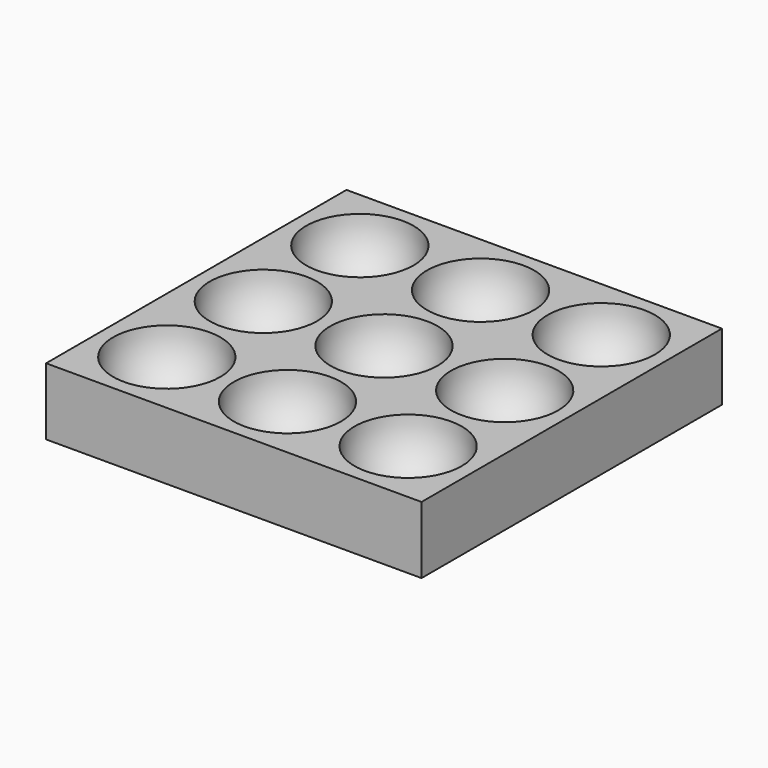
from build123d import *

# Parameters (mm, degrees)
ARRAY_X_COUNT = 3
ARRAY_X_PITCH = 18
ARRAY_Y_COUNT = 3
ARRAY_Y_PITCH = 18
BOX_W         = 56
BOX_H         = 56
BOX_DEPTH     = 10


with BuildPart() as array:
    # Sphere → Sphere (revolve)
    with BuildSketch(Plane.XZ):
        with BuildLine():
            ThreePointArc((0, -8), (8, 0), (0, 8))
            Line((0, 8), (0, -8))
        make_face()
    revolve(axis=Axis((0, 0, 0), (0, 0, 1)))

    # Array X: Array ×3


with BuildPart() as array_1:
    add(array.part)
    with Locations(*[(i * ARRAY_X_PITCH, 0, 0) for i in range(1, ARRAY_X_COUNT)]):
        add(array.part)

    # Array Y: Array ×3


with BuildPart() as array_2:
    add(array_1.part)
    with Locations(*[(0, i * ARRAY_Y_PITCH, 0) for i in range(1, ARRAY_Y_COUNT)]):
        add(array_1.part)


with BuildPart() as array_3:
    # Array placement: moved
    add(array_2.part.moved(Location((10, 10, 10))))


with BuildPart() as cut:
    # Box → Box (new body)
    with BuildSketch(Plane.XY):
        with Locations((28, 28)):
            Rectangle(BOX_W, BOX_H)
    extrude(amount=BOX_DEPTH)

    # Cut: cut Array
    add(array_3.part, mode=Mode.SUBTRACT)


solid = cut.part
